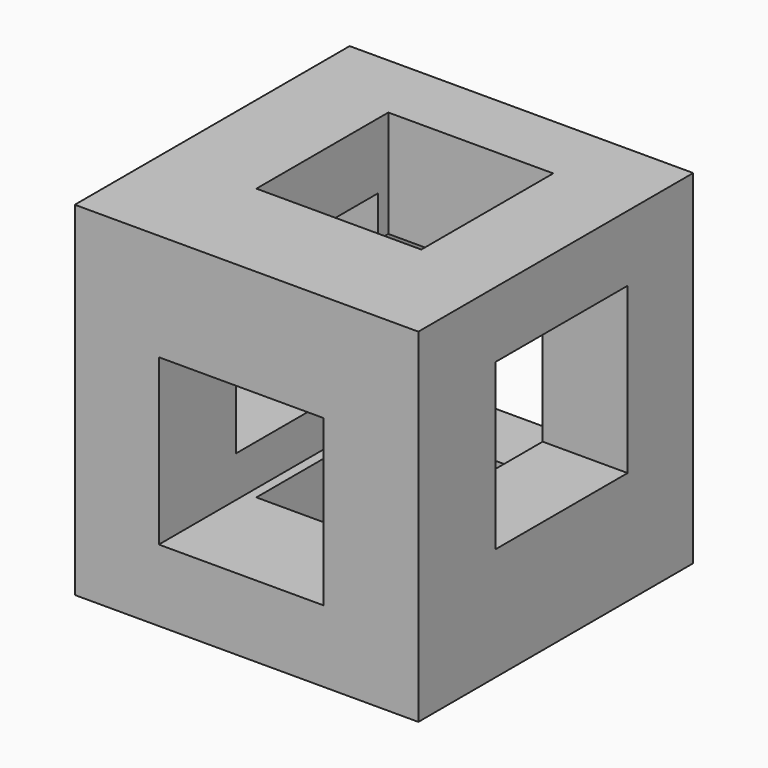
from build123d import *

# Parameters (mm, degrees)
F0_W     = 25
F0_H     = 25
F1_DEPTH = 25
F2_W     = 12
F2_H     = 12
F3_DEPTH = 25
F4_W     = 12
F4_H     = 12
F5_DEPTH = 25
F6_W     = 12
F6_H     = 12
F7_DEPTH = 25


with BuildPart() as f1:
    # F0 (on Top) → F1 (new body)
    with BuildSketch(Plane.XY):
        with Locations((12.5, 12.5)):
            Rectangle(F0_W, F0_H)
    extrude(amount=F1_DEPTH)

    # F2 (on face) → F3 (cut)
    with BuildSketch(Plane.XY.offset(25)):
        with Locations((12.820027, 13.99222)):
            Rectangle(F2_W, F2_H)
    extrude(amount=-F3_DEPTH, mode=Mode.SUBTRACT)

    # F4 (on face) → F5 (cut)
    with BuildSketch(Plane(origin=(0, 25, 0), x_dir=(-1, 0, 0), z_dir=(0, 1, 0))):
        with Locations((-12.115697, 11.221583)):
            Rectangle(F4_W, F4_H)
    extrude(amount=-F5_DEPTH, mode=Mode.SUBTRACT)

    # F6 (on face) → F7 (cut)
    with BuildSketch(Plane.YZ.offset(25)):
        with Locations((13.033153, 14.205345)):
            Rectangle(F6_W, F6_H)
    extrude(amount=-F7_DEPTH, mode=Mode.SUBTRACT)


solid = f1.part
